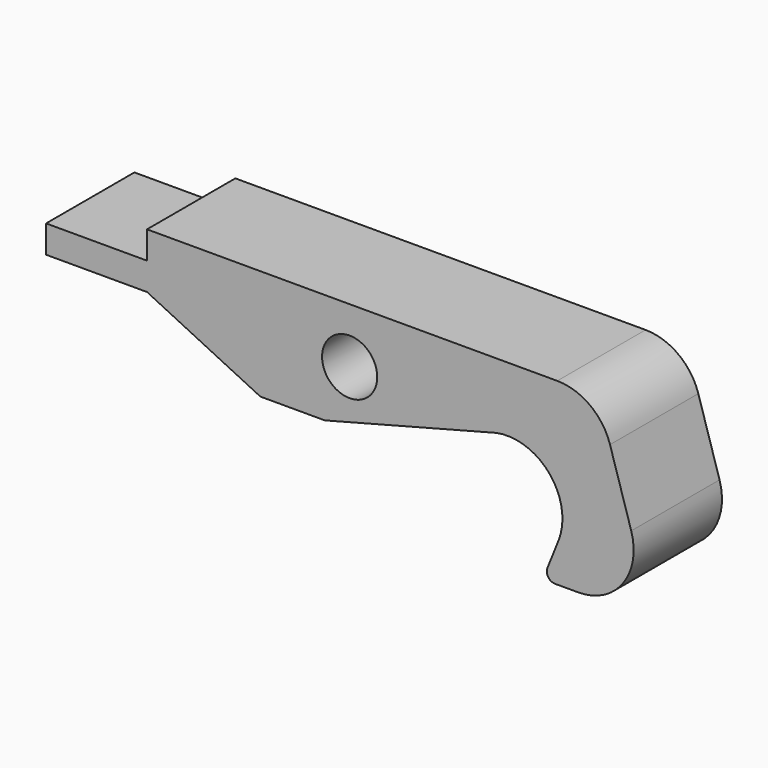
from build123d import *

# Parameters (mm, degrees)
F0_R          = 1
F1_DEPTH      = 2
F1_DEPTH_BACK = 2


with BuildPart() as f1:
    # F0 (on Front) → F1 (new body, two sides)
    with BuildSketch(Plane.XZ) as f1_sk:
        with BuildLine():
            Line((7.522851, 2), (-7.342623, 2))
            Line((-7.342623, 2), (-7.342623, 1))
            Line((-7.342623, 1), (-11, 1))
            Line((-11, 1), (-11, 0))
            Line((-11, 0), (-7.342623, 0))
            Line((-7.342623, 0), (-3.237142, -2))
            Line((-3.237142, -2), (-0.901438, -2))
            Line((-0.901438, -2), (5.09411, -0.435057))
            ThreePointArc((5.09411, -0.435057), (7.171691, -0.971518), (7.567859, -3.080354))
            Line((7.567859, -3.080354), (7.164567, -4.088583))
            ThreePointArc((7.164567, -4.088583), (7.19469, -4.368189), (7.44311, -4.5))
            Line((7.44311, -4.5), (8.292081, -4.5))
            ThreePointArc((8.292081, -4.5), (9.900861, -3.688204), (10.203639, -1.911828))
            Line((10.203639, -1.911828), (9.434409, 0.588172))
            ThreePointArc((9.434409, 0.588172), (8.711055, 1.60878), (7.522851, 2))
        make_face()
        Circle(F0_R, mode=Mode.SUBTRACT)
    extrude(amount=F1_DEPTH)
    extrude(f1_sk.sketch, amount=-F1_DEPTH_BACK)


solid = f1.part
